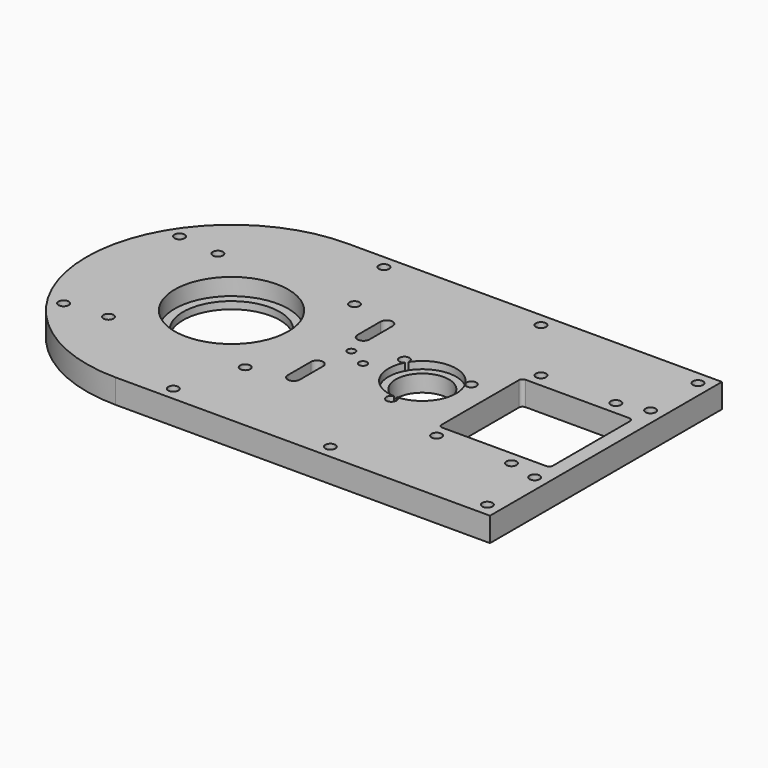
from build123d import *

# Parameters (mm, degrees)
SKETCH_R        = 2.1
SKETCH_R_2      = 11
SKETCH_R_3      = 20
SKETCH_R_4      = 1.65
PAD_DEPTH       = 10
SKETCH001_R     = 23.5
POCKET_DEPTH    = 7
SKETCH002_R     = 14
POCKET001_DEPTH = 3


with BuildPart() as part:
    # Sketch → Pad (new body)
    with BuildSketch(Plane.XY):
        with BuildLine():
            ThreePointArc((0, 60), (-60, 0), (0, -60))
            Line((155, -60), (0, -60))
            Line((155, 60), (155, -60))
            Line((0, 60), (155, 60))
        make_face()
        with Locations((84.5, -54.5)):
            Circle(SKETCH_R, mode=Mode.SUBTRACT)
        with Locations((84.5, 54.5)):
            Circle(SKETCH_R, mode=Mode.SUBTRACT)
        with Locations((149.5, 54.5)):
            Circle(SKETCH_R, mode=Mode.SUBTRACT)
        with Locations((149.5, -54.5)):
            Circle(SKETCH_R, mode=Mode.SUBTRACT)
        with Locations((-45.5, 30)):
            Circle(SKETCH_R, mode=Mode.SUBTRACT)
        with Locations((-45.5, -30)):
            Circle(SKETCH_R, mode=Mode.SUBTRACT)
        with Locations((19.5, 54.5)):
            Circle(SKETCH_R, mode=Mode.SUBTRACT)
        with Locations((19.5, -54.5)):
            Circle(SKETCH_R, mode=Mode.SUBTRACT)
        with Locations((106.5, -27)):
            Circle(SKETCH_R, mode=Mode.SUBTRACT)
        with Locations((137.5, -27)):
            Circle(SKETCH_R, mode=Mode.SUBTRACT)
        with Locations((149.5, 30)):
            Circle(SKETCH_R, mode=Mode.SUBTRACT)
        with Locations((106.5, 27)):
            Circle(SKETCH_R, mode=Mode.SUBTRACT)
        with Locations((79, 0)):
            Circle(SKETCH_R_2, mode=Mode.SUBTRACT)
        Circle(SKETCH_R_3, mode=Mode.SUBTRACT)
        with Locations((-28.284271, 28.284271)):
            Circle(SKETCH_R, mode=Mode.SUBTRACT)
        with Locations((28.284271, 28.284271)):
            Circle(SKETCH_R, mode=Mode.SUBTRACT)
        with Locations((-28.284271, -28.284271)):
            Circle(SKETCH_R, mode=Mode.SUBTRACT)
        with Locations((28.284271, -28.284271)):
            Circle(SKETCH_R, mode=Mode.SUBTRACT)
        with Locations((79, -16)):
            Circle(SKETCH_R, mode=Mode.SUBTRACT)
        with Locations((92.856406, 8)):
            Circle(SKETCH_R, mode=Mode.SUBTRACT)
        with Locations((65.143594, 8)):
            Circle(SKETCH_R, mode=Mode.SUBTRACT)
        with Locations((48, 2)):
            Circle(SKETCH_R_4, mode=Mode.SUBTRACT)
        with Locations((56.39, -2.46)):
            Circle(SKETCH_R_4, mode=Mode.SUBTRACT)
        with Locations((149.5, -30)):
            Circle(SKETCH_R, mode=Mode.SUBTRACT)
        with Locations((137.5, 27)):
            Circle(SKETCH_R, mode=Mode.SUBTRACT)
        with BuildLine():
            Line((104.5, 21.5), (147.5, 21.5))
            ThreePointArc((149, 20), (148.56066, 21.06066), (147.5, 21.5))
            Line((149, 20), (149, -20))
            ThreePointArc((147.5, -21.5), (148.56066, -21.06066), (149, -20))
            Line((147.5, -21.5), (104.5, -21.5))
            ThreePointArc((103, -20), (103.43934, -21.06066), (104.5, -21.5))
            Line((103, -20), (103, 20))
            ThreePointArc((104.5, 21.5), (103.43934, 21.06066), (103, 20))
        make_face(mode=Mode.SUBTRACT)
        with BuildLine():
            ThreePointArc((47.5, 24), (45, 26.5), (42.5, 24))
            Line((42.5, 24), (42.5, 12))
            ThreePointArc((42.5, 12), (45, 9.5), (47.5, 12))
            Line((47.5, 24), (47.5, 12))
        make_face(mode=Mode.SUBTRACT)
        with BuildLine():
            ThreePointArc((47.5, -12), (45, -9.5), (42.5, -12))
            Line((42.5, -12), (42.5, -24))
            ThreePointArc((42.5, -24), (45, -26.5), (47.5, -24))
            Line((47.5, -12), (47.5, -24))
        make_face(mode=Mode.SUBTRACT)
    extrude(amount=PAD_DEPTH)

    # Sketch001 (on Face47 of Pad) → Pocket (cut)
    with BuildSketch(Plane.XY.offset(10)):
        Circle(SKETCH001_R)
    extrude(amount=-POCKET_DEPTH, mode=Mode.SUBTRACT)

    # Sketch002 (on Face5 of Pocket) → Pocket001 (cut)
    with BuildSketch(Plane.XY.offset(10)):
        with Locations((79, 0)):
            Circle(SKETCH002_R)
    extrude(amount=-POCKET001_DEPTH, mode=Mode.SUBTRACT)


solid = part.part
